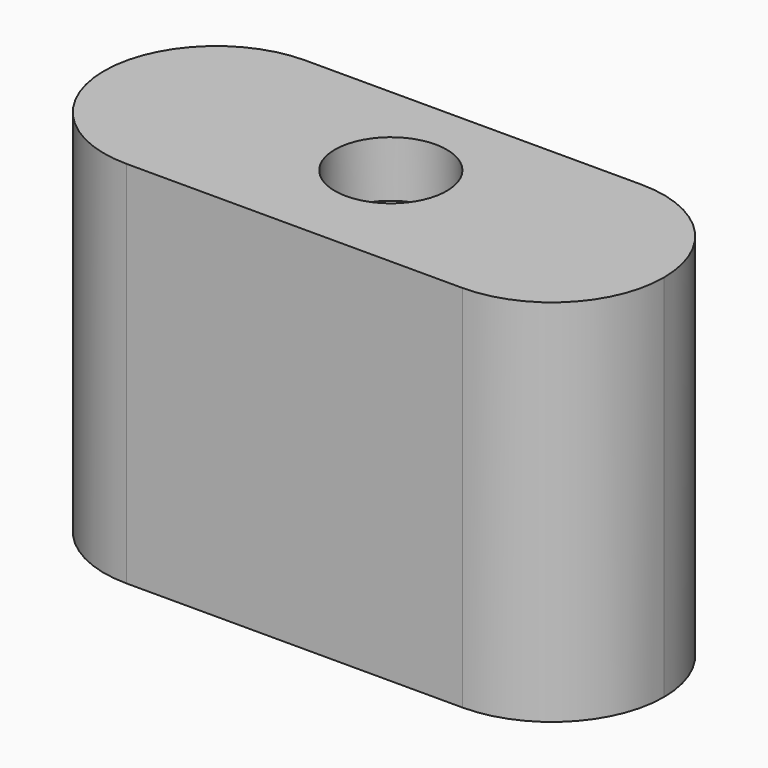
from build123d import *

# Parameters (mm, degrees)
F1_DEPTH = 16.764
F2_D     = 5.08
F2_DEPTH = 2.54
F2_TIP   = 1.5261859723


with BuildPart() as f1:
    # F0 (on Top) → F1 (new body)
    with BuildSketch(Plane.XY):
        with BuildLine():
            Line((-5.8029337353, 0), (-21.0429337353, 0))
            ThreePointArc((-21.0429337353, 0), (-24.6350361837, -1.4878975516), (-26.1229337353, -5.08))
            ThreePointArc((-26.1229337353, -5.08), (-24.6350361837, -8.6721024484), (-21.0429337353, -10.16))
            Line((-21.0429337353, -10.16), (-5.8029337353, -10.16))
            ThreePointArc((-5.8029337353, -10.16), (-2.2108312868, -8.6721024484), (-0.7229337353, -5.08))
            ThreePointArc((-0.7229337353, -5.08), (-2.2108312868, -1.4878975516), (-5.8029337353, 0))
        make_face()
    extrude(amount=-F1_DEPTH)

    # F2
    with Locations(Plane.XY):
        with Locations((-13.4229337353, -4.6937279403)):
            Hole(F2_D / 2, depth=F2_DEPTH)
            with Locations((0, 0, -(F2_DEPTH + F2_TIP / 2))):  # 118° drill point
                Cone(0, F2_D / 2, F2_TIP, mode=Mode.SUBTRACT)


solid = f1.part
